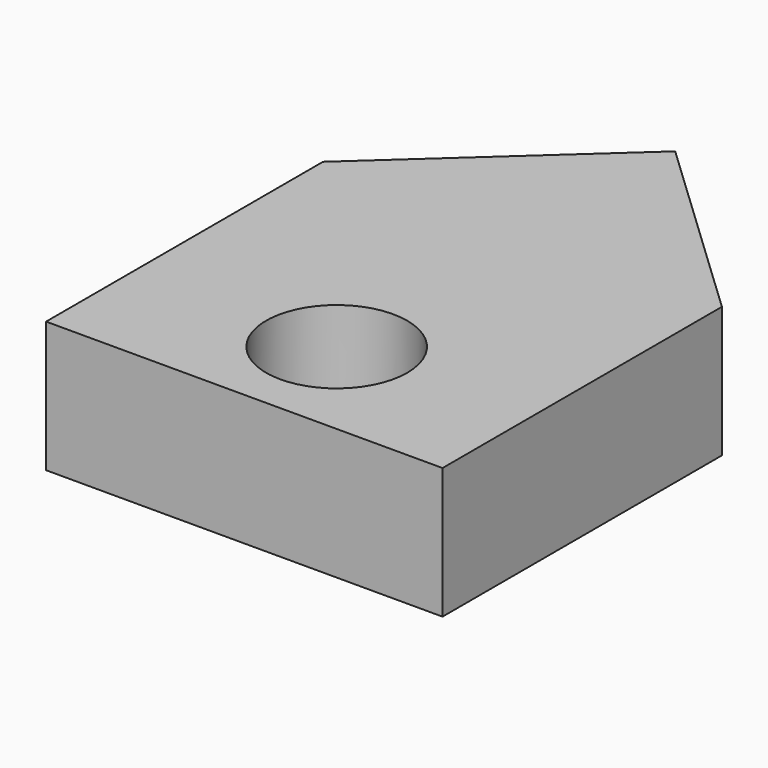
from build123d import *

# Parameters (mm, degrees)
F0_R     = 13.69544
F1_DEPTH = 25.4


with BuildPart() as f1:
    # F0 (on Top) → F1 (new body)
    with BuildSketch(Plane.XY):
        Polygon((0, 55.732161), (-39.546929, 19.697119), (37.409257, 20.307882), align=None)
        Polygon((-39.546929, 19.697119), (-39.546929, -47.486853), (37.409257, -47.486853), (37.409257, 20.307882), align=None)
        with Locations((0, -26.415514)):
            Circle(F0_R, mode=Mode.SUBTRACT)
    extrude(amount=F1_DEPTH)


solid = f1.part
